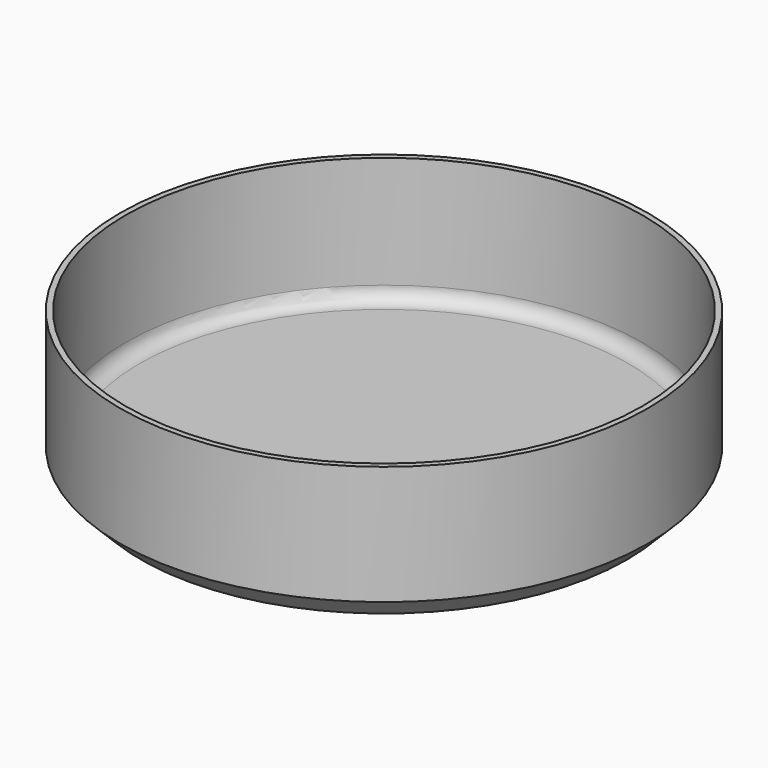
from build123d import *

# Parameters (mm, degrees)
F2_R    = 2
F3_SIZE = 3


with BuildPart() as f1:
    # F0 (on Front) → F1 (revolve)
    with BuildSketch(Plane.XZ):
        with BuildLine():
            Line((36.9, 20), (36.9, 2))
            Line((36.9, 2), (0, 2))
            Line((0, 2), (0, 1))
            add(Edge.make_bspline(
                [(29.7, 0), (15.418199, 0), (18.330893, 1), (0, 1)],
                knots=[0, 0, 0, 0, 29.71683, 29.71683, 29.71683, 29.71683], degree=3))
            Line((29.7, 0), (37.7, 0))
            Line((37.7, 0), (37.7, 20))
            Line((37.7, 20), (36.9, 20))
        make_face()
    revolve(axis=Axis((0, 0, 19.229219), (0, 0, 1)))

    # F2
    f2_edges = [f1.edges().sort_by_distance(p)[0] for p in [
        (-36.9, 0, 2),
    ]]
    fillet(f2_edges, radius=F2_R)

    # F3
    f3_edges = [f1.edges().sort_by_distance(p)[0] for p in [
        (-37.7, 0, 0),
    ]]
    chamfer(f3_edges, length=F3_SIZE)


solid = f1.part
